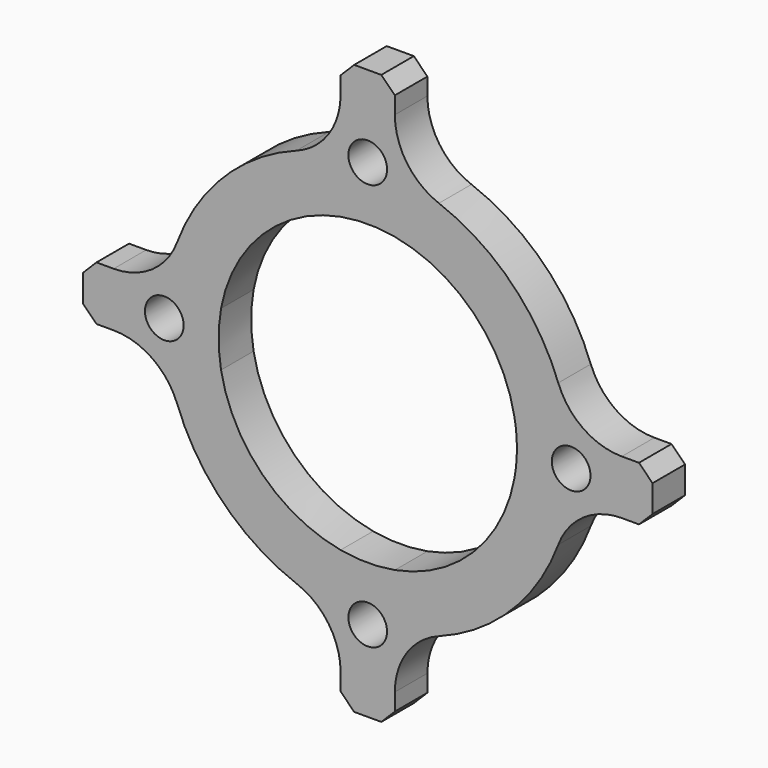
from build123d import *

# Parameters (mm, degrees)
F1_DEPTH = 3
F2_SIZE  = 1
F3_SIZE  = 1
F4_SIZE  = 1
F5_SIZE  = 1
F6_SIZE  = 1
F7_R     = 1.425
F8_DEPTH = 3.001
F9_R     = 5
F10_R    = 5
F11_R    = 5
F12_R    = 5
F13_R    = 5
F14_R    = 5
F15_R    = 5
F16_R    = 5


with BuildPart() as f1:
    # F0 (on Front) → F1 (new body)
    with BuildSketch(Plane.XZ):
        with BuildLine():
            ThreePointArc((10.8166538264, 2), (10.9540675571, 1.004193186), (11, 0))
            ThreePointArc((11, 0), (10.9540675571, -1.004193186), (10.8166538264, -2))
            Line((10.8166538264, -2), (14.8660687473, -2))
            ThreePointArc((14.8660687473, -2), (14.9664797332, -1.0022396895), (15, 0))
            ThreePointArc((15, 0), (14.9664797332, 1.0022396895), (14.8660687473, 2))
            Line((14.8660687473, 2), (10.8166538264, 2))
        make_face()
        with BuildLine():
            ThreePointArc((2, 10.8166538264), (7.7781745931, 7.7781745931), (10.8166538264, 2))
            Line((10.8166538264, 2), (14.8660687473, 2))
            ThreePointArc((14.8660687473, 2), (10.6066017178, 10.6066017178), (2, 14.8660687473))
            Line((2, 14.8660687473), (2, 10.8166538264))
        make_face()
        with BuildLine():
            Line((14.8660687473, -2), (10.8166538264, -2))
            ThreePointArc((10.8166538264, -2), (7.7781745931, -7.7781745931), (2, -10.8166538264))
            Line((2, -10.8166538264), (2, -14.8660687473))
            ThreePointArc((2, -14.8660687473), (10.6066017178, -10.6066017178), (14.8660687473, -2))
        make_face()
        with BuildLine():
            ThreePointArc((-2, 10.8166538264), (0, 11), (2, 10.8166538264))
            Line((2, 10.8166538264), (2, 14.8660687473))
            ThreePointArc((2, 14.8660687473), (0, 15), (-2, 14.8660687473))
            Line((-2, 14.8660687473), (-2, 10.8166538264))
        make_face()
        with BuildLine():
            Line((21, 2), (14.8660687473, 2))
            ThreePointArc((14.8660687473, 2), (14.9664797332, 1.0022396895), (15, 0))
            ThreePointArc((15, 0), (14.9664797332, -1.0022396895), (14.8660687473, -2))
            Line((14.8660687473, -2), (21, -2))
            Line((21, -2), (21, 2))
        make_face()
        with BuildLine():
            Line((2, -14.8660687473), (2, -10.8166538264))
            ThreePointArc((2, -10.8166538264), (0, -11), (-2, -10.8166538264))
            Line((-2, -10.8166538264), (-2, -14.8660687473))
            ThreePointArc((-2, -14.8660687473), (0, -15), (2, -14.8660687473))
        make_face()
        with BuildLine():
            ThreePointArc((-10.8166538264, 2), (-7.7781745931, 7.7781745931), (-2, 10.8166538264))
            Line((-2, 10.8166538264), (-2, 14.8660687473))
            ThreePointArc((-2, 14.8660687473), (-10.6066017178, 10.6066017178), (-14.8660687473, 2))
            Line((-14.8660687473, 2), (-10.8166538264, 2))
        make_face()
        with BuildLine():
            ThreePointArc((-2, 14.8660687473), (0, 15), (2, 14.8660687473))
            Line((2, 14.8660687473), (2, 21))
            Line((2, 21), (-2, 21))
            Line((-2, 21), (-2, 14.8660687473))
        make_face()
        with BuildLine():
            Line((-2, -14.8660687473), (-2, -10.8166538264))
            ThreePointArc((-2, -10.8166538264), (-7.7781745931, -7.7781745931), (-10.8166538264, -2))
            Line((-10.8166538264, -2), (-14.8660687473, -2))
            ThreePointArc((-14.8660687473, -2), (-10.6066017178, -10.6066017178), (-2, -14.8660687473))
        make_face()
        with BuildLine():
            Line((2, -21), (2, -14.8660687473))
            ThreePointArc((2, -14.8660687473), (0, -15), (-2, -14.8660687473))
            Line((-2, -14.8660687473), (-2, -21))
            Line((-2, -21), (2, -21))
        make_face()
        with BuildLine():
            ThreePointArc((-10.8166538264, -2), (-11, 0), (-10.8166538264, 2))
            Line((-10.8166538264, 2), (-14.8660687473, 2))
            ThreePointArc((-14.8660687473, 2), (-15, 0), (-14.8660687473, -2))
            Line((-14.8660687473, -2), (-10.8166538264, -2))
        make_face()
        with BuildLine():
            ThreePointArc((-14.8660687473, -2), (-15, 0), (-14.8660687473, 2))
            Line((-14.8660687473, 2), (-21, 2))
            Line((-21, 2), (-21, -2))
            Line((-21, -2), (-14.8660687473, -2))
        make_face()
    extrude(amount=F1_DEPTH)

    # F2
    f2_edges = [f1.edges().sort_by_distance(p)[0] for p in [
        (-2, -1.5, 21),
    ]]
    chamfer(f2_edges, length=F2_SIZE)

    # F3
    f3_edges = [f1.edges().sort_by_distance(p)[0] for p in [
        (2, -1.5, 21),
    ]]
    chamfer(f3_edges, length=F3_SIZE)

    # F4
    f4_edges = [f1.edges().sort_by_distance(p)[0] for p in [
        (21, -1.5, 2),
        (21, -1.5, -2),
    ]]
    chamfer(f4_edges, length=F4_SIZE)

    # F5
    f5_edges = [f1.edges().sort_by_distance(p)[0] for p in [
        (2, -1.5, -21),
        (-2, -1.5, -21),
    ]]
    chamfer(f5_edges, length=F5_SIZE)

    # F6
    f6_edges = [f1.edges().sort_by_distance(p)[0] for p in [
        (-21, -1.5, 2),
        (-21, -1.5, -2),
    ]]
    chamfer(f6_edges, length=F6_SIZE)

    # F7 (on Front) → F8 (cut, through all)
    with BuildSketch(Plane.XZ):
        with Locations((0, 15)):
            Circle(F7_R)
        with Locations((15, 0)):
            Circle(F7_R)
        with Locations((-15, 0)):
            Circle(F7_R)
        with Locations((0, -15)):
            Circle(F7_R)
    extrude(amount=F8_DEPTH, mode=Mode.SUBTRACT)

    # F9
    f9_edges = [f1.edges().sort_by_distance(p)[0] for p in [
        (-2, -1.5, 14.866069),
    ]]
    fillet(f9_edges, radius=F9_R)

    # F10
    f10_edges = [f1.edges().sort_by_distance(p)[0] for p in [
        (2, -1.5, 14.866069),
    ]]
    fillet(f10_edges, radius=F10_R)

    # F11
    f11_edges = [f1.edges().sort_by_distance(p)[0] for p in [
        (14.866069, -1.5, -2),
    ]]
    fillet(f11_edges, radius=F11_R)

    # F12
    f12_edges = [f1.edges().sort_by_distance(p)[0] for p in [
        (-2, -1.5, -14.866069),
    ]]
    fillet(f12_edges, radius=F12_R)

    # F13
    f13_edges = [f1.edges().sort_by_distance(p)[0] for p in [
        (2, -1.5, -14.866069),
    ]]
    fillet(f13_edges, radius=F13_R)

    # F14
    f14_edges = [f1.edges().sort_by_distance(p)[0] for p in [
        (14.866069, -1.5, 2),
    ]]
    fillet(f14_edges, radius=F14_R)

    # F15
    f15_edges = [f1.edges().sort_by_distance(p)[0] for p in [
        (-14.866069, -1.5, -2),
    ]]
    fillet(f15_edges, radius=F15_R)

    # F16
    f16_edges = [f1.edges().sort_by_distance(p)[0] for p in [
        (-14.866069, -1.5, 2),
    ]]
    fillet(f16_edges, radius=F16_R)


solid = f1.part
